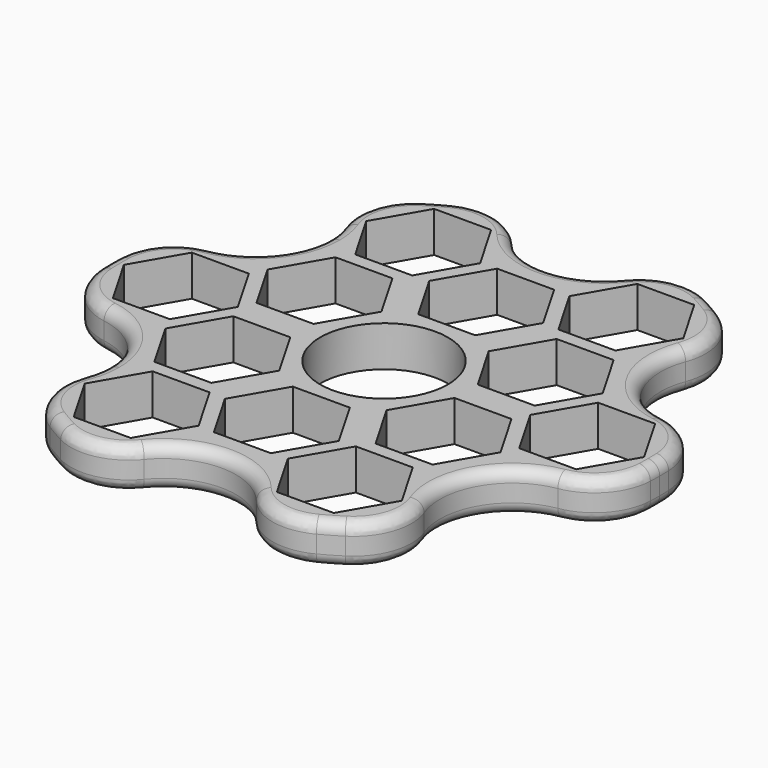
from build123d import *

# Parameters (mm, degrees)
F0_R     = 11
F1_DEPTH = 7
F2_R     = 10
F3_R     = 2


with BuildPart() as f1:
    # F0 (on Top) → F1 (new body)
    with BuildSketch(Plane.XY):
        with BuildLine():
            ThreePointArc((45.9074833847, -12.1964326459), (47.1001882203, -6.1499812694), (47.5, 0))
            ThreePointArc((47.5, 0), (47.1001882203, 6.1499812694), (45.9074833847, 12.1964326459))
            ThreePointArc((45.9074833847, 12.1964326459), (30.3108891325, 17.5), (33.5161621992, 33.658830512))
            ThreePointArc((33.5161621992, 33.658830512), (23.75, 41.1362066798), (12.3913211854, 45.8552631579))
            ThreePointArc((12.3913211854, 45.8552631579), (0, 35), (-12.3913211854, 45.8552631579))
            ThreePointArc((-12.3913211854, 45.8552631579), (-23.75, 41.1362066798), (-33.5161621992, 33.658830512))
            ThreePointArc((-33.5161621992, 33.658830512), (-29.9223635382, 29.2726553393), (-28.6362066798, 23.75))
            ThreePointArc((-28.6362066798, 23.75), (-34.1860613148, 13.360318609), (-45.9074833847, 12.1964326459))
            ThreePointArc((-45.9074833847, 12.1964326459), (-47.5, 0), (-45.9074833847, -12.1964326459))
            ThreePointArc((-45.9074833847, -12.1964326459), (-34.1860613148, -13.360318609), (-28.6362066798, -23.75))
            ThreePointArc((-28.6362066798, -23.75), (-29.9223635382, -29.2726553393), (-33.5161621992, -33.658830512))
            ThreePointArc((-33.5161621992, -33.658830512), (-23.75, -41.1362066798), (-12.3913211854, -45.8552631579))
            ThreePointArc((-12.3913211854, -45.8552631579), (0, -35), (12.3913211854, -45.8552631579))
            ThreePointArc((12.3913211854, -45.8552631579), (23.75, -41.1362066798), (33.5161621992, -33.658830512))
            ThreePointArc((33.5161621992, -33.658830512), (30.3108891325, -17.5), (45.9074833847, -12.1964326459))
        make_face()
        Polygon((-12.5925227119, -21.8108891325), (-7.6850454238, -30.3108891325), (-12.5925227119, -38.8108891325), (-22.4074772881, -38.8108891325), (-27.3149545762, -30.3108891325), (-22.4074772881, -21.8108891325), align=None, mode=Mode.SUBTRACT)
        Polygon((-14.1450815951, -2.5), (-9.237604307, -11), (-14.1450815951, -19.5), (-23.9600361714, -19.5), (-28.8675134595, -11), (-23.9600361714, -2.5), align=None, mode=Mode.SUBTRACT)
        Polygon((12.5925227119, -38.8108891325), (7.6850454238, -30.3108891325), (12.5925227119, -21.8108891325), (22.4074772881, -21.8108891325), (27.3149545762, -30.3108891325), (22.4074772881, -38.8108891325), align=None, mode=Mode.SUBTRACT)
        Polygon((4.9074772881, -30.5), (-4.9074772881, -30.5), (-9.8149545762, -22), (-4.9074772881, -13.5), (4.9074772881, -13.5), (9.8149545762, -22), align=None, mode=Mode.SUBTRACT)
        Polygon((23.9600361714, -19.5), (14.1450815951, -19.5), (9.237604307, -11), (14.1450815951, -2.5), (23.9600361714, -2.5), (28.8675134595, -11), align=None, mode=Mode.SUBTRACT)
        Polygon((-25.1850454238, 0), (-30.0925227119, -8.5), (-39.9074772881, -8.5), (-44.8149545762, 0), (-39.9074772881, 8.5), (-30.0925227119, 8.5), align=None, mode=Mode.SUBTRACT)
        Polygon((-14.1450815951, 19.5), (-9.237604307, 11), (-14.1450815951, 2.5), (-23.9600361714, 2.5), (-28.8675134595, 11), (-23.9600361714, 19.5), align=None, mode=Mode.SUBTRACT)
        Polygon((-7.6850454238, 30.3108891325), (-12.5925227119, 21.8108891325), (-22.4074772881, 21.8108891325), (-27.3149545762, 30.3108891325), (-22.4074772881, 38.8108891325), (-12.5925227119, 38.8108891325), align=None, mode=Mode.SUBTRACT)
        Circle(F0_R, mode=Mode.SUBTRACT)
        Polygon((14.1450815951, 2.5), (9.237604307, 11), (14.1450815951, 19.5), (23.9600361714, 19.5), (28.8675134595, 11), (23.9600361714, 2.5), align=None, mode=Mode.SUBTRACT)
        Polygon((9.8149545762, 22), (4.9074772881, 13.5), (-4.9074772881, 13.5), (-9.8149545762, 22), (-4.9074772881, 30.5), (4.9074772881, 30.5), align=None, mode=Mode.SUBTRACT)
        Polygon((39.9074772881, 8.5), (44.8149545762, 0), (39.9074772881, -8.5), (30.0925227119, -8.5), (25.1850454238, 0), (30.0925227119, 8.5), align=None, mode=Mode.SUBTRACT)
        Polygon((7.6850454238, 30.3108891325), (12.5925227119, 38.8108891325), (22.4074772881, 38.8108891325), (27.3149545762, 30.3108891325), (22.4074772881, 21.8108891325), (12.5925227119, 21.8108891325), align=None, mode=Mode.SUBTRACT)
    extrude(amount=F1_DEPTH)

    # F2
    f2_edges = [f1.edges().sort_by_distance(p)[0] for p in [
        (33.516162, -33.658831, 3.5),
        (45.907483, -12.196433, 3.5),
        (33.516162, 33.658831, 3.5),
        (45.907483, 12.196433, 3.5),
        (12.391321, 45.855263, 3.5),
        (-12.391321, 45.855263, 3.5),
        (-33.516162, 33.658831, 3.5),
        (-45.907483, 12.196433, 3.5),
        (-45.907483, -12.196433, 3.5),
        (-33.516162, -33.658831, 3.5),
        (-12.391321, -45.855263, 3.5),
        (12.391321, -45.855263, 3.5),
    ]]
    fillet(f2_edges, radius=F2_R)

    # F3
    f3_edges = [f1.edges().sort_by_distance(p)[0] for p in [
        (-30.310889, 17.5, 7),
        (-30.310889, 17.5, 0),
    ]]
    fillet(f3_edges, radius=F3_R)


solid = f1.part
